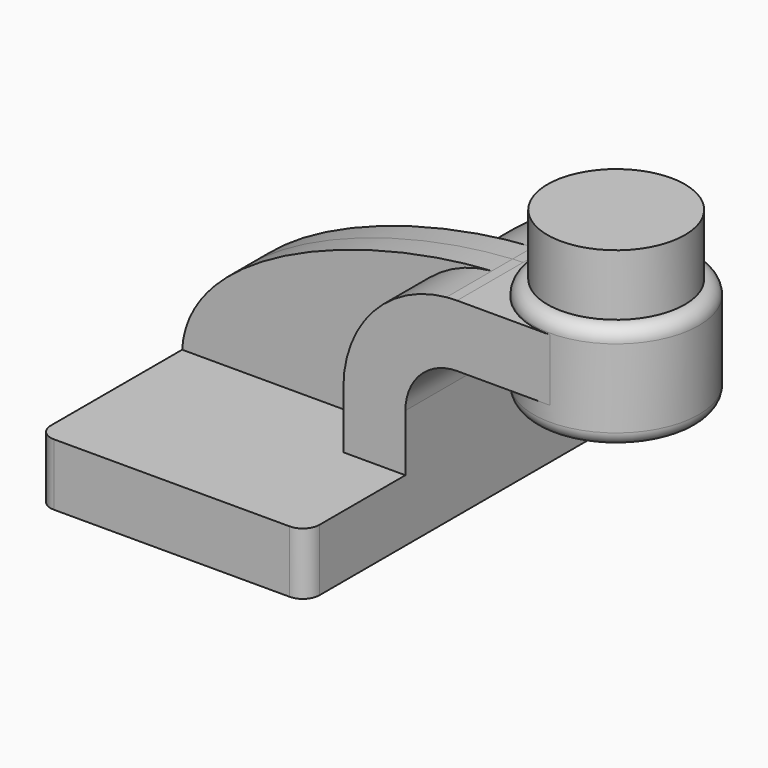
from build123d import *

# Parameters (mm, degrees)
F1_DEPTH = 63.5
F0_W     = 25.4
F0_H     = 19.05
F2_DEPTH = 25.4
F3_DEPTH = 7.9375
F5_R     = 5.08
F6_DEPTH = 4.08076
F7_R     = 4.2924717139
F8_DEPTH = 18.796


with BuildPart() as f1:
    # F0 (on Front) → F1 (new body, symmetric)
    with BuildSketch(Plane.XZ):
        Polygon((22.225, 9.525), (-41.275, 9.525), (-41.275, -9.525), (41.275, -9.525), (41.275, 9.525), align=None)
    extrude(amount=F1_DEPTH, both=True)

    # F0 (on Front) → F2 (join, symmetric)
    with BuildSketch(Plane.XZ):
        with BuildLine():
            Line((22.225, 27.0002), (22.225, 9.525))
            Line((22.225, 9.525), (41.275, 9.525))
            Line((41.275, 9.525), (41.275, 27.0002))
            ThreePointArc((41.275, 27.0002), (45.9246798487, 38.2255201513), (57.15, 42.8752))
            Line((57.15, 42.8752), (60.325, 42.8752))
            Line((60.325, 42.8752), (60.325, 61.9252))
            Line((60.325, 61.9252), (57.15, 61.9252))
            add(Edge.make_bspline(
                [(53.8854342407, 61.7722898912), (54.9842067368, 61.8365871986), (56.0728453275, 61.8876096574), (57.15, 61.9252)],
                knots=[108.5245810491, 108.5245810491, 108.5245810491, 108.5245810491, 111.5045361635, 111.5045361635, 111.5045361635, 111.5045361635], degree=3))
            ThreePointArc((53.8854342407, 61.7722898912), (31.3258777096, 50.5133948686), (22.225, 27.0002))
        make_face()
        with Locations((73.025, 52.4002)):
            Rectangle(F0_W, F0_H)
    extrude(amount=F2_DEPTH, both=True)

    # F0 (on Front) → F3 (join, symmetric)
    with BuildSketch(Plane.XZ):
        with BuildLine():
            add(Edge.make_bspline(
                [(-41.275, 9.525), (-39.5856284224, 39.4828766469), (13.870125209, 59.4306981306), (53.8854342407, 61.7722898912)],
                knots=[0, 0, 0, 0, 108.5245810491, 108.5245810491, 108.5245810491, 108.5245810491], degree=3))
            Line((-41.275, 9.525), (22.225, 9.525))
            Line((22.225, 9.525), (22.225, 27.0002))
            ThreePointArc((22.225, 27.0002), (31.3258777096, 50.5133948686), (53.8854342407, 61.7722898912))
        make_face()
    extrude(amount=F3_DEPTH, both=True)

    # F0 (on Front) → F4 (revolve)
    with BuildSketch(Plane.XZ):
        Polygon((85.725, 66.675), (85.725, 61.9252), (85.725, 42.8752), (85.725, 38.1), (111.125, 38.1), (111.125, 66.675), align=None)
    revolve(axis=Axis((85.725, 0, 52.3875), (0, 0, 1)))

    # F5
    f5_edges = [f1.edges().sort_by_distance(p)[0] for p in [
        (41.275, -63.5, 0),
        (-41.275, -63.5, 0),
        (41.275, 63.5, 0),
        (-41.275, 63.5, 0),
    ]]
    fillet(f5_edges, radius=F5_R)

    # F6 (add): faces of the model
    f6_faces = [f1.faces().sort_by_distance(p)[0] for p in [
        (85.725, 0, 66.675),
        (85.725, 0, 38.1),
    ]]
    extrude(f6_faces, amount=-F6_DEPTH, dir=(0, 0, 1))

    # F7
    f7_edges = [f1.edges().sort_by_distance(p)[0] for p in [
        (60.325, 0, 66.675),
        (60.325, 0, 34.01924),
    ]]
    fillet(f7_edges, radius=F7_R)

    # F8 (add): a face of the model
    f8_faces = [f1.faces().sort_by_distance(p)[0] for p in [
        (85.725, 0, 66.675),
    ]]
    extrude(f8_faces, amount=F8_DEPTH)


solid = f1.part
